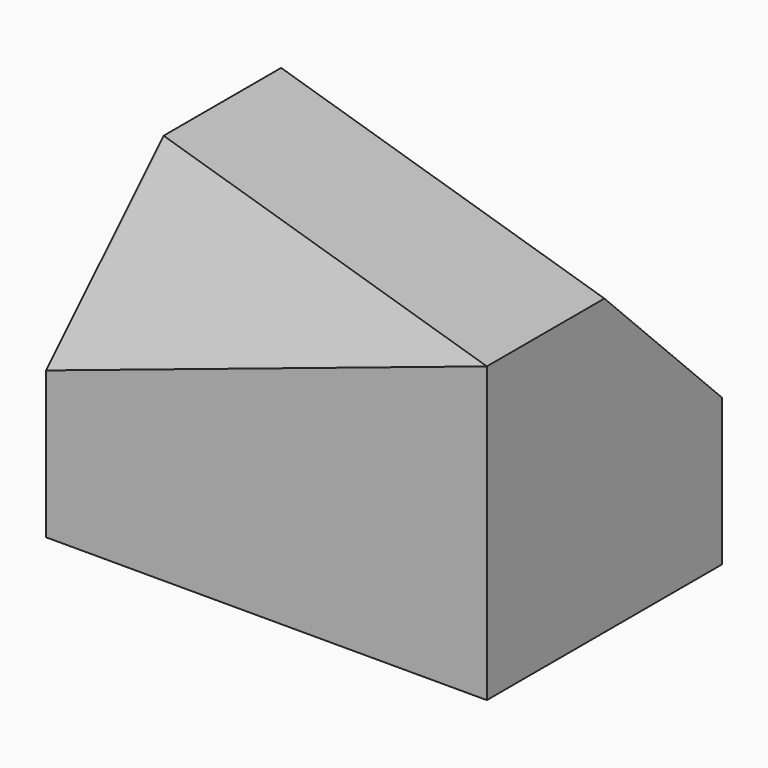
from build123d import *

# Parameters (mm, degrees)
F0_W     = 60
F0_H     = 40
F1_DEPTH = 40
F5_DEPTH = 63.246553
F8_DEPTH = 63.246553


with BuildPart() as f1:
    # F0 (on Top) → F1 (new body)
    with BuildSketch(Plane.XY):
        with Locations((30, 20)):
            Rectangle(F0_W, F0_H)
    extrude(amount=F1_DEPTH)

    # F4 (on face) → F5 (cut, through all)
    with BuildSketch(Plane(origin=(-6, 2, 0), x_dir=(0.316228, 0.948683, 0), z_dir=(0.948683, -0.316228, 0))):
        Polygon((18.973666, 40), (0, 40), (0, 20), align=None)
    extrude(amount=F5_DEPTH, mode=Mode.SUBTRACT)

    # F7 (on face) → F8 (cut, through all)
    with BuildSketch(Plane(origin=(48, -16, 0), x_dir=(0.316228, 0.948683, 0), z_dir=(0.948683, -0.316228, 0))):
        Polygon((56.920998, 40), (37.947332, 40), (56.920998, 20), align=None)
    extrude(amount=-F8_DEPTH, mode=Mode.SUBTRACT)


solid = f1.part
